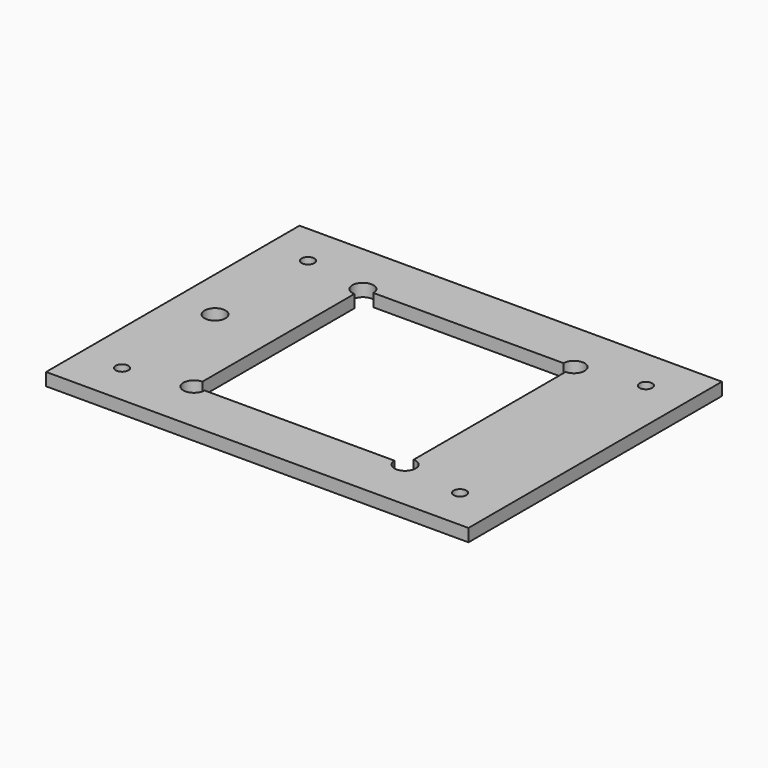
from build123d import *

# Parameters (mm, degrees)
F0_W     = 100
F0_H     = 75
F0_R     = 1.5
F0_R_2   = 2.5
F1_DEPTH = 3


with BuildPart() as f1:
    # F0 (on Top) → F1 (new body)
    with BuildSketch(Plane.XY):
        with Locations((50, 37.5)):
            Rectangle(F0_W, F0_H)
        with Locations((10, 10)):
            Circle(F0_R, mode=Mode.SUBTRACT)
        with Locations((90, 10)):
            Circle(F0_R, mode=Mode.SUBTRACT)
        with Locations((10, 37.5)):
            Circle(F0_R_2, mode=Mode.SUBTRACT)
        with Locations((10, 65)):
            Circle(F0_R, mode=Mode.SUBTRACT)
        with BuildLine():
            Line((27.5, 62.5), (72.5, 62.5))
            ThreePointArc((72.5, 62.5), (76.767767, 64.267767), (75, 60))
            Line((75, 60), (75, 15))
            ThreePointArc((75, 15), (76.767767, 10.732233), (72.5, 12.5))
            Line((72.5, 12.5), (27.5, 12.5))
            ThreePointArc((27.5, 12.5), (23.232233, 10.732233), (25, 15))
            Line((25, 15), (25, 60))
            ThreePointArc((25, 60), (23.232233, 64.267767), (27.5, 62.5))
        make_face(mode=Mode.SUBTRACT)
        with Locations((90, 65)):
            Circle(F0_R, mode=Mode.SUBTRACT)
    extrude(amount=-F1_DEPTH)


solid = f1.part
